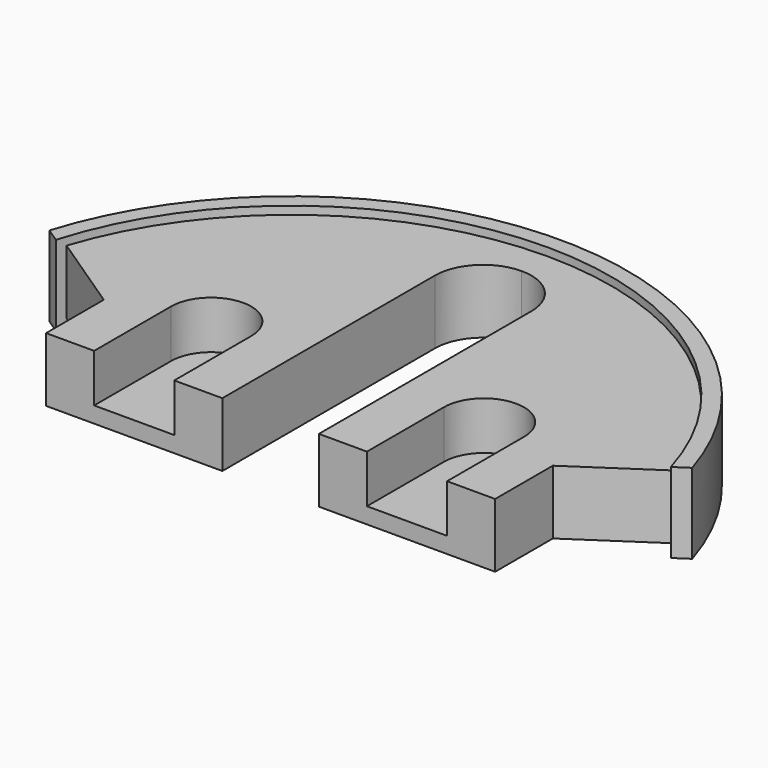
from build123d import *

# Parameters (mm, degrees)
F1_DEPTH      = 2
F1_DEPTH_BACK = 2
F3_DEPTH      = 2.5
F3_DEPTH_BACK = 2.5
F5_DEPTH      = 3


with BuildPart() as f1:
    # F0 (on Top) → F1 (new body, two sides)
    with BuildSketch(Plane.XY) as f1_sk:
        with BuildLine():
            Line((14.011182, 2.911577), (19, 6.244998))
            ThreePointArc((19, 6.244998), (0, 20), (-19, 6.244998))
            Line((-19, 6.244998), (-14.011182, 2.911577))
            Line((-14.011182, 2.911577), (-14.011182, -1.588423))
            Line((-14.011182, -1.588423), (-3.011182, -1.588423))
            Line((-3.011182, -1.588423), (-3.011182, 14.988818))
            ThreePointArc((-3.011182, 14.988818), (-2.129227, 17.118045), (0, 18))
            ThreePointArc((0, 18), (2.129227, 17.118045), (3.011182, 14.988818))
            Line((3.011182, 14.988818), (3.011182, -1.588423))
            Line((3.011182, -1.588423), (14.011182, -1.588423))
            Line((14.011182, -1.588423), (14.011182, 2.911577))
        make_face()
    extrude(amount=F1_DEPTH)
    extrude(f1_sk.sketch, amount=-F1_DEPTH_BACK)

    # F2 (on Top) → F3 (join, two sides)
    with BuildSketch(Plane.XY) as f3_sk:
        with BuildLine():
            Line((19.186818, 5.644998), (20.055932, 6.225721))
            ThreePointArc((20.055932, 6.225721), (0, 21), (-20.055932, 6.225721))
            Line((-20.055932, 6.225721), (-19.186818, 5.644998))
            ThreePointArc((-19.186818, 5.644998), (0, 20), (19.186818, 5.644998))
        make_face()
    extrude(amount=F3_DEPTH)
    extrude(f3_sk.sketch, amount=-F3_DEPTH_BACK)

    # F4 (on face) → F5 (cut)
    with BuildSketch(Plane.XY.offset(2)):
        with BuildLine():
            Line((-11.011182, 4.411577), (-11.011182, -1.588423))
            Line((-11.011182, -1.588423), (-6.011182, -1.588423))
            Line((-6.011182, -1.588423), (-6.011182, 4.411577))
            ThreePointArc((-6.011182, 4.411577), (-8.511182, 6.911577), (-11.011182, 4.411577))
        make_face()
        with BuildLine():
            Line((6.011182, 4.411577), (6.011182, -1.588423))
            Line((6.011182, -1.588423), (11.011182, -1.588423))
            Line((11.011182, -1.588423), (11.011182, 4.411577))
            ThreePointArc((11.011182, 4.411577), (8.511182, 6.911577), (6.011182, 4.411577))
        make_face()
    extrude(amount=-F5_DEPTH, mode=Mode.SUBTRACT)


solid = f1.part
